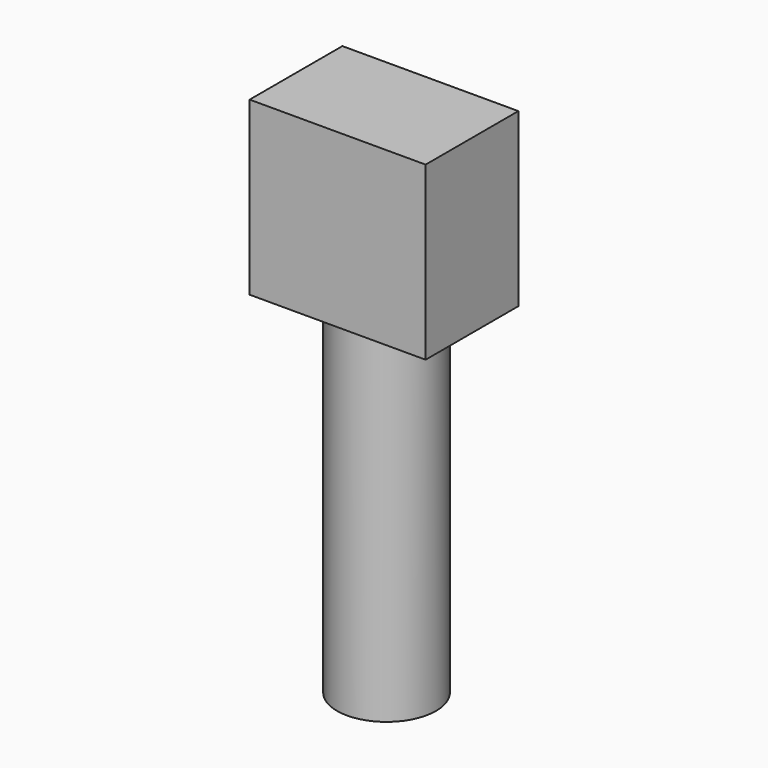
from build123d import *

# Parameters (mm, degrees)
F0_W     = 38.5572
F0_H     = 37.636498
F1_DEPTH = 25.4
F2_R     = 10.8458
F3_DEPTH = 76.2


with BuildPart() as f1:
    # F0 (on Front) → F1 (new body)
    with BuildSketch(Plane.XZ):
        with Locations((-28.752615, 0.843576)):
            Rectangle(F0_W, F0_H)
    extrude(amount=F1_DEPTH)

    # F2 (on face) → F3 (join)
    with BuildSketch(Plane(origin=(0, 0, -17.974673), x_dir=(1, 0, 0), z_dir=(0, 0, -1))):
        with Locations((-29.070949, 11.615401)):
            Circle(F2_R)
    extrude(amount=F3_DEPTH)


solid = f1.part
